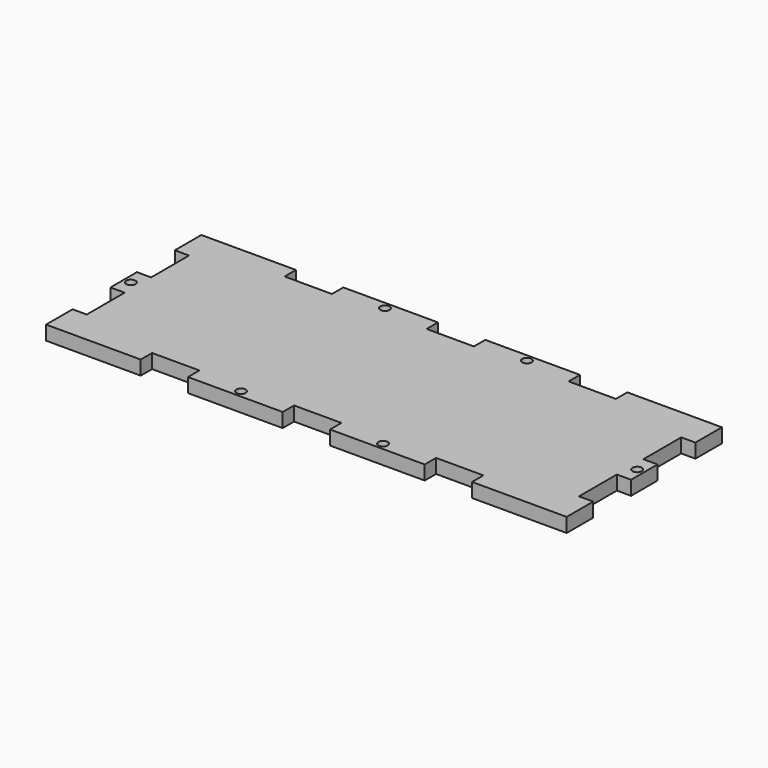
from build123d import *

# Parameters (mm, degrees)
F0_R     = 1
F1_DEPTH = 3


with BuildPart() as f1:
    # F0 (on Top) → F1 (new body)
    with BuildSketch(Plane.XY):
        Polygon((-35, 21.10829), (-55, 21.10829), (-55, 14.10829), (-52, 14.10829), (-52, 4.10829), (-55, 4.10829), (-55, 0.60829), (-55, -2.89171), (-52, -2.89171), (-52, -12.89171), (-55, -12.89171), (-55, -19.89171), (-35, -19.89171), (-35, -16.89171), (-25, -16.89171), (-25, -19.89171), (-5, -19.89171), (-5, -16.89171), (0, -16.89171), (5, -16.89171), (5, -19.89171), (25, -19.89171), (25, -16.89171), (35, -16.89171), (35, -19.89171), (55, -19.89171), (55, -12.89171), (52, -12.89171), (52, -2.89171), (55, -2.89171), (55, 0.60829), (55, 4.10829), (52, 4.10829), (52, 14.10829), (55, 14.10829), (55, 21.10829), (35, 21.10829), (35, 18.10829), (25, 18.10829), (25, 21.10829), (5, 21.10829), (5, 18.10829), (0, 18.10829), (-5, 18.10829), (-5, 21.10829), (-25, 21.10829), (-25, 18.10829), (-35, 18.10829), align=None)
        with Locations((-15, -18.39171)):
            Circle(F0_R, mode=Mode.SUBTRACT)
        with Locations((-53.5, 0.60829)):
            Circle(F0_R, mode=Mode.SUBTRACT)
        with Locations((15, -18.39171)):
            Circle(F0_R, mode=Mode.SUBTRACT)
        with Locations((53.5, 0.60829)):
            Circle(F0_R, mode=Mode.SUBTRACT)
        with Locations((-15, 19.60829)):
            Circle(F0_R, mode=Mode.SUBTRACT)
        with Locations((15, 19.60829)):
            Circle(F0_R, mode=Mode.SUBTRACT)
    extrude(amount=F1_DEPTH)


solid = f1.part
